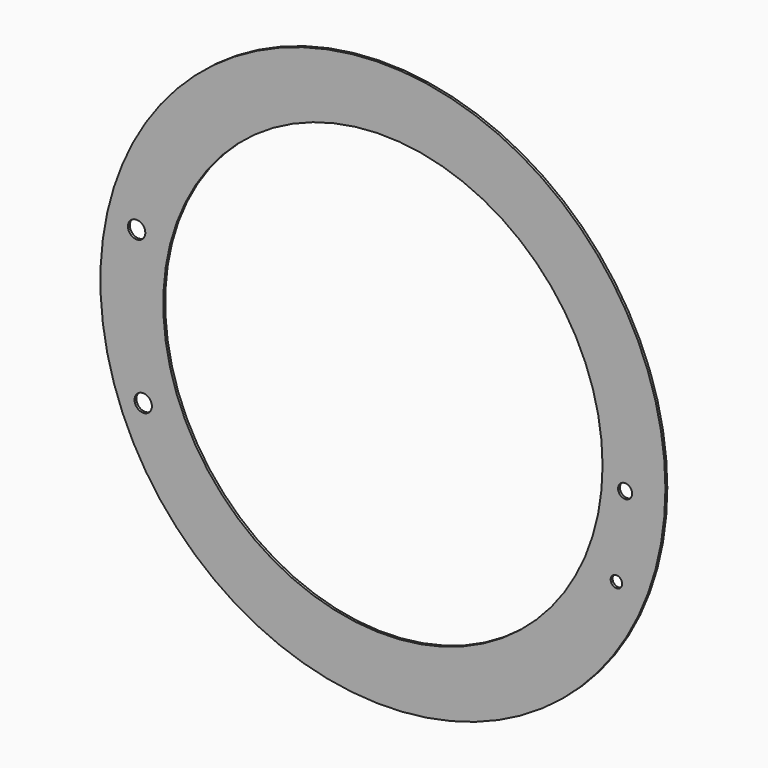
from build123d import *

# Parameters (mm, degrees)
F0_R     = 60.484024
F0_R_2   = 1.857944
F0_R_3   = 1.231078
F0_R_4   = 1.503057
F0_R_5   = 1.860203
F0_R_6   = 47.023522
F1_DEPTH = 0.508


with BuildPart() as f1:
    # F0 (on Front) → F1 (new body)
    with BuildSketch(Plane.XZ):
        Circle(F0_R)
        with Locations((-51.31948, -20.179848)):
            Circle(F0_R_2, mode=Mode.SUBTRACT)
        with Locations((49.991365, -20.913929)):
            Circle(F0_R_3, mode=Mode.SUBTRACT)
        with Locations((51.846373, -3.229027)):
            Circle(F0_R_4, mode=Mode.SUBTRACT)
        with Locations((-52.730181, 12.048138)):
            Circle(F0_R_5, mode=Mode.SUBTRACT)
        Circle(F0_R_6, mode=Mode.SUBTRACT)
    extrude(amount=F1_DEPTH)


solid = f1.part
